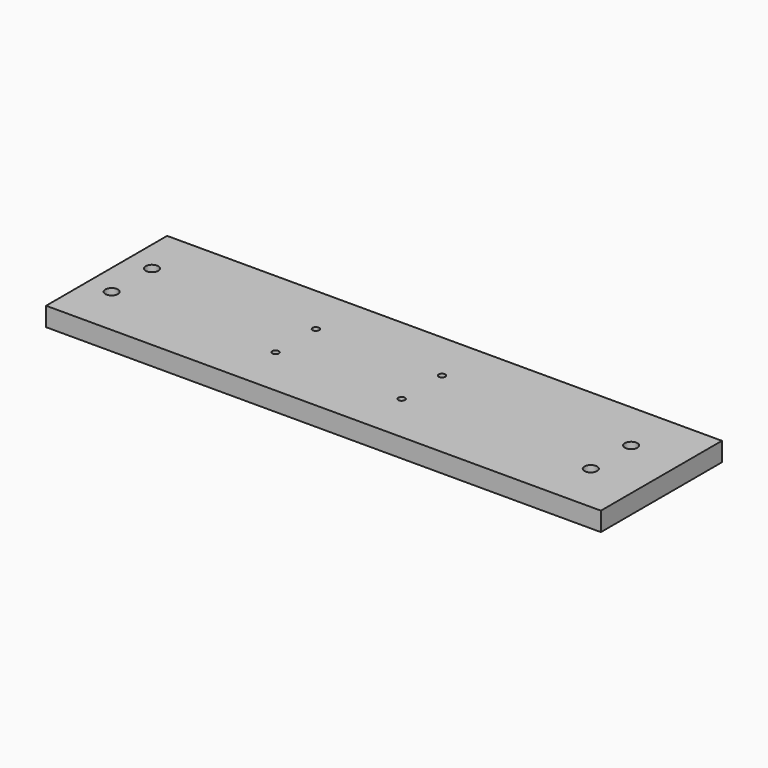
from build123d import *

# Parameters (mm, degrees)
F0_W     = 11
F0_H     = 3
F1_DEPTH = 0.375
F2_R     = 0.125
F2_R_2   = 0.065
F3_DEPTH = 0.376


with BuildPart() as f1:
    # F0 (on Top) → F1 (new body)
    with BuildSketch(Plane.XY):
        with Locations((5.5, 1.5)):
            Rectangle(F0_W, F0_H)
    extrude(amount=-F1_DEPTH)

    # F2 (on face) → F3 (cut, through all)
    with BuildSketch(Plane.XY):
        with Locations((10, 1)):
            Circle(F2_R)
        with Locations((10, 2)):
            Circle(F2_R)
        with Locations((6.25, 2)):
            Circle(F2_R_2)
        with Locations((6.25, 1)):
            Circle(F2_R_2)
        with Locations((3.75, 2)):
            Circle(F2_R_2)
        with Locations((3.75, 1)):
            Circle(F2_R_2)
        with Locations((0.5, 2)):
            Circle(F2_R)
        with Locations((0.5, 1)):
            Circle(F2_R)
    extrude(amount=-F3_DEPTH, mode=Mode.SUBTRACT)


solid = f1.part
